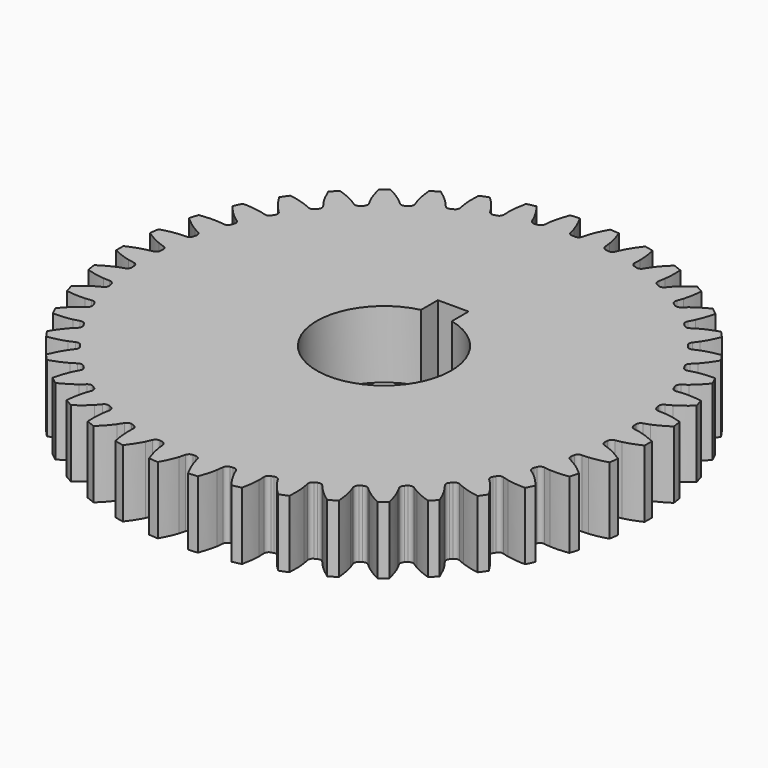
from build123d import *

# Parameters (mm, degrees)
PAD_DEPTH    = 7
POCKET_DEPTH = 7.001


with BuildPart() as part:
    # InvoluteGear → Pad (new body)
    with BuildSketch(Plane.XY):
        with BuildLine():
            add(Edge.make_bspline(
                [(25.048352, -1.260396), (25.212552, -1.238678), (25.424294, -1.201535), (25.681234, -1.138379)],
                knots=[0, 0, 0, 0, 1, 1, 1, 1], degree=3))
            add(Edge.make_bspline(
                [(25.681234, -1.138379), (26.14902, -1.023293), (26.76217, -0.823274), (27.496424, -0.477333)],
                knots=[0, 0, 0, 0, 1, 1, 1, 1], degree=3))
            ThreePointArc((27.496424, -0.477333), (27.500284, 0.000112), (27.495853, 0.477551))
            add(Edge.make_bspline(
                [(27.495853, 0.477551), (26.76217, 0.823274), (26.14902, 1.023293), (25.681234, 1.138379)],
                knots=[0, 0, 0, 0, 1, 1, 1, 1], degree=3))
            add(Edge.make_bspline(
                [(25.681234, 1.138379), (25.424294, 1.201535), (25.212552, 1.238678), (25.048407, 1.260386)],
                knots=[0, 0, 0, 0, 1, 1, 1, 1], degree=3))
            ThreePointArc((25.048407, 1.260386), (24.75907, 1.404429), (24.628881, 1.700258))
            ThreePointArc((24.628881, 1.700258), (24.618469, 1.844899), (24.607207, 1.989477))
            ThreePointArc((24.607207, 1.989477), (24.691837, 2.30138), (24.956435, 2.486944))
            add(Edge.make_bspline(
                [(24.956435, 2.486944), (25.115564, 2.532893), (25.319405, 2.60118), (25.564062, 2.701925)],
                knots=[0, 0, 0, 0, 1, 1, 1, 1], degree=3))
            add(Edge.make_bspline(
                [(25.564062, 2.701925), (26.009471, 2.885446), (26.585962, 3.174616), (27.260455, 3.626128)],
                knots=[0, 0, 0, 0, 1, 1, 1, 1], degree=3))
            ThreePointArc((27.260455, 3.626128), (27.193112, 4.098815), (27.117572, 4.570262))
            add(Edge.make_bspline(
                [(27.117572, 4.570262), (26.340556, 4.802773), (25.704444, 4.909173), (25.224729, 4.953254)],
                knots=[0, 0, 0, 0, 1, 1, 1, 1], degree=3))
            add(Edge.make_bspline(
                [(25.224729, 4.953254), (24.961247, 4.977409), (24.746333, 4.982579), (24.580786, 4.97958)],
                knots=[0, 0, 0, 0, 1, 1, 1, 1], degree=3))
            ThreePointArc((24.580786, 4.97958), (24.273213, 5.078891), (24.100386, 5.352012))
            ThreePointArc((24.100386, 5.352012), (24.068533, 5.493486), (24.035849, 5.63477))
            ThreePointArc((24.035849, 5.63477), (24.073047, 5.955803), (24.307032, 6.178731))
            add(Edge.make_bspline(
                [(24.307032, 6.178731), (24.457536, 6.247883), (24.648923, 6.345789), (24.875832, 6.481872)],
                knots=[0, 0, 0, 0, 1, 1, 1, 1], degree=3))
            add(Edge.make_bspline(
                [(24.875832, 6.481872), (25.288914, 6.729728), (25.815866, 7.10159), (26.415532, 7.648587)],
                knots=[0, 0, 0, 0, 1, 1, 1, 1], degree=3))
            ThreePointArc((26.415532, 7.648587), (26.27849, 8.105958), (26.133529, 8.56088))
            add(Edge.make_bspline(
                [(26.133529, 8.56088), (25.330538, 8.674986), (24.685672, 8.68539), (24.204745, 8.657481)],
                knots=[0, 0, 0, 0, 1, 1, 1, 1], degree=3))
            add(Edge.make_bspline(
                [(24.204745, 8.657481), (23.940606, 8.642096), (23.727322, 8.615177), (23.564071, 8.587538)],
                knots=[0, 0, 0, 0, 1, 1, 1, 1], degree=3))
            ThreePointArc((23.564071, 8.587538), (23.245131, 8.639898), (23.033529, 8.884211))
            ThreePointArc((23.033529, 8.884211), (22.980946, 9.019357), (22.927569, 9.154191))
            ThreePointArc((22.927569, 9.154191), (22.916504, 9.477183), (23.114651, 9.732495))
            add(Edge.make_bspline(
                [(23.114651, 9.732495), (23.253166, 9.823306), (23.427824, 9.948643), (23.631916, 10.117025)],
                knots=[0, 0, 0, 0, 1, 1, 1, 1], degree=3))
            add(Edge.make_bspline(
                [(23.631916, 10.117025), (24.003444, 10.42368), (24.469087, 10.869926), (24.980529, 11.500189)],
                knots=[0, 0, 0, 0, 1, 1, 1, 1], degree=3))
            ThreePointArc((24.980529, 11.500189), (24.776851, 11.932027), (24.565706, 12.360263))
            add(Edge.make_bspline(
                [(24.565706, 12.360263), (23.754677, 12.353415), (23.115463, 12.26759), (22.644068, 12.168314)],
                knots=[0, 0, 0, 0, 1, 1, 1, 1], degree=3))
            add(Edge.make_bspline(
                [(22.644068, 12.168314), (22.385171, 12.113733), (22.178282, 12.055326), (22.020974, 12.003665)],
                knots=[0, 0, 0, 0, 1, 1, 1, 1], degree=3))
            ThreePointArc((22.020974, 12.003665), (21.697793, 12.007905), (21.452141, 12.217951))
            ThreePointArc((21.452141, 12.217951), (21.380002, 12.34375), (21.307126, 12.469123))
            ThreePointArc((21.307126, 12.469123), (21.248045, 12.786859), (21.405926, 13.068851))
            add(Edge.make_bspline(
                [(21.405926, 13.068851), (21.52936, 13.179293), (21.683386, 13.32926), (21.860103, 13.526181)],
                knots=[0, 0, 0, 0, 1, 1, 1, 1], degree=3))
            add(Edge.make_bspline(
                [(21.860103, 13.526181), (22.181776, 13.884783), (22.575709, 14.395447), (22.987503, 15.094896)],
                knots=[0, 0, 0, 0, 1, 1, 1, 1], degree=3))
            ThreePointArc((22.987503, 15.094896), (22.721738, 15.491554), (22.449126, 15.883537))
            add(Edge.make_bspline(
                [(22.449126, 15.883537), (21.648176, 15.755888), (21.028893, 15.575752), (20.577559, 15.407327)],
                knots=[0, 0, 0, 0, 1, 1, 1, 1], degree=3))
            add(Edge.make_bspline(
                [(20.577559, 15.407327), (20.329689, 15.314769), (20.133816, 15.22618), (19.985964, 15.151649)],
                knots=[0, 0, 0, 0, 1, 1, 1, 1], degree=3))
            ThreePointArc((19.985964, 15.151649), (19.665761, 15.107675), (19.391547, 15.278762))
            ThreePointArc((19.391547, 15.278762), (19.301465, 15.392404), (19.210717, 15.505516))
            ThreePointArc((19.210717, 15.505516), (19.10494, 15.810897), (19.219029, 16.11327))
            add(Edge.make_bspline(
                [(19.219029, 16.11327), (19.324623, 16.240875), (19.454578, 16.412125), (19.599971, 16.633184)],
                knots=[0, 0, 0, 0, 1, 1, 1, 1], degree=3))
            add(Edge.make_bspline(
                [(19.599971, 16.633184), (19.864604, 17.035724), (20.178027, 17.599396), (20.480974, 18.352408)],
                knots=[0, 0, 0, 0, 1, 1, 1, 1], degree=3))
            ThreePointArc((20.480974, 18.352408), (20.159058, 18.705025), (19.831069, 19.052))
            add(Edge.make_bspline(
                [(19.831069, 19.052), (19.058091, 18.806401), (18.472572, 18.535978), (18.051382, 18.302166)],
                knots=[0, 0, 0, 0, 1, 1, 1, 1], degree=3))
            add(Edge.make_bspline(
                [(18.051382, 18.302166), (17.820075, 18.173699), (17.639593, 18.056905), (17.504501, 17.961171)],
                knots=[0, 0, 0, 0, 1, 1, 1, 1], degree=3))
            ThreePointArc((17.504501, 17.961171), (17.194428, 17.869964), (16.897778, 17.998271))
            ThreePointArc((16.897778, 17.998271), (16.791764, 18.097218), (16.685171, 18.195541))
            ThreePointArc((16.685171, 18.195541), (16.535061, 18.481745), (16.60281, 18.797746))
            add(Edge.make_bspline(
                [(16.60281, 18.797746), (16.688206, 18.939664), (16.791186, 19.128369), (16.902008, 19.368629)],
                knots=[0, 0, 0, 0, 1, 1, 1, 1], degree=3))
            add(Edge.make_bspline(
                [(16.902008, 19.368629), (17.10369, 19.806115), (17.329602, 20.410204), (17.516934, 21.199958)],
                knots=[0, 0, 0, 0, 1, 1, 1, 1], degree=3))
            ThreePointArc((17.516934, 21.199958), (17.146059, 21.500657), (16.770019, 21.794872))
            add(Edge.make_bspline(
                [(16.770019, 21.794872), (16.042279, 21.43681), (15.503605, 21.08214), (15.121966, 20.788165)],
                knots=[0, 0, 0, 0, 1, 1, 1, 1], degree=3))
            add(Edge.make_bspline(
                [(15.121966, 20.788165), (14.912391, 20.626658), (14.751332, 20.48427), (14.632017, 20.369471)],
                knots=[0, 0, 0, 0, 1, 1, 1, 1], degree=3))
            ThreePointArc((14.632017, 20.369471), (14.339001, 20.233068), (14.026541, 20.315728))
            ThreePointArc((14.026541, 20.315728), (13.906964, 20.39777), (13.786907, 20.479108))
            ThreePointArc((13.786907, 20.479108), (13.595817, 20.739743), (13.615711, 21.062311))
            add(Edge.make_bspline(
                [(13.615711, 21.062311), (13.679002, 21.215371), (13.752707, 21.417317), (13.826482, 21.671411)],
                knots=[0, 0, 0, 0, 1, 1, 1, 1], degree=3))
            add(Edge.make_bspline(
                [(13.826482, 21.671411), (13.960708, 22.13407), (14.094061, 22.765082), (14.161595, 23.573936)],
                knots=[0, 0, 0, 0, 1, 1, 1, 1], degree=3))
            ThreePointArc((14.161595, 23.573936), (13.750045, 23.816), (13.334355, 24.050883))
            add(Edge.make_bspline(
                [(13.334355, 24.050883), (12.668109, 23.588356), (12.188313, 23.157363), (11.854751, 22.80979)],
                knots=[0, 0, 0, 0, 1, 1, 1, 1], degree=3))
            add(Edge.make_bspline(
                [(11.854751, 22.80979), (11.671588, 22.618852), (11.533549, 22.454049), (11.432677, 22.322749)],
                knots=[0, 0, 0, 0, 1, 1, 1, 1], degree=3))
            ThreePointArc((11.432677, 22.322749), (11.163264, 22.144198), (10.841974, 22.179366))
            ThreePointArc((10.841974, 22.179366), (10.711505, 22.242669), (10.580666, 22.305205))
            ThreePointArc((10.580666, 22.305205), (10.352865, 22.534448), (10.32446, 22.856379))
            add(Edge.make_bspline(
                [(10.32446, 22.856379), (10.364232, 23.017163), (10.407015, 23.227838), (10.442096, 23.49009)],
                knots=[0, 0, 0, 0, 1, 1, 1, 1], degree=3))
            add(Edge.make_bspline(
                [(10.442096, 23.49009), (10.505866, 23.967586), (10.543683, 24.611426), (10.489909, 25.42131)],
                knots=[0, 0, 0, 0, 1, 1, 1, 1], degree=3))
            ThreePointArc((10.489909, 25.42131), (10.046878, 25.599333), (9.600823, 25.769637))
            add(Edge.make_bspline(
                [(9.600823, 25.769637), (9.010955, 25.212977), (8.600753, 24.715288), (8.322721, 24.321883)],
                knots=[0, 0, 0, 0, 1, 1, 1, 1], degree=3))
            add(Edge.make_bspline(
                [(8.322721, 24.321883), (8.170061, 24.105778), (8.058127, 23.922242), (7.977951, 23.777375)],
                knots=[0, 0, 0, 0, 1, 1, 1, 1], degree=3))
            ThreePointArc((7.977951, 23.777375), (7.738158, 23.560664), (7.415215, 23.547553))
            ThreePointArc((7.415215, 23.547553), (7.276768, 23.590704), (7.138071, 23.63304))
            ThreePointArc((7.138071, 23.63304), (6.878647, 23.825772), (6.802578, 24.139873))
            add(Edge.make_bspline(
                [(6.802578, 24.139873), (6.817942, 24.304789), (6.828847, 24.519488), (6.82445, 24.784038)],
                knots=[0, 0, 0, 0, 1, 1, 1, 1], degree=3))
            add(Edge.make_bspline(
                [(6.82445, 24.784038), (6.816341, 25.265706), (6.757776, 25.907991), (6.583895, 26.700815)],
                knots=[0, 0, 0, 0, 1, 1, 1, 1], degree=3))
            ThreePointArc((6.583895, 26.700815), (6.11928, 26.810819), (5.652825, 26.91274))
            add(Edge.make_bspline(
                [(5.652825, 26.91274), (5.152511, 26.274382), (4.821068, 25.721114), (4.604774, 25.290665)],
                knots=[0, 0, 0, 0, 1, 1, 1, 1], degree=3))
            add(Edge.make_bspline(
                [(4.604774, 25.290665), (4.486028, 25.054221), (4.402699, 24.856052), (4.34501, 24.700853)],
                knots=[0, 0, 0, 0, 1, 1, 1, 1], degree=3))
            ThreePointArc((4.34501, 24.700853), (4.140194, 24.450823), (3.822813, 24.389727))
            ThreePointArc((3.822813, 24.389727), (3.679481, 24.411761), (3.536022, 24.432953))
            ThreePointArc((3.536022, 24.432953), (3.250771, 24.584866), (3.128738, 24.884122))
            add(Edge.make_bspline(
                [(3.128738, 24.884122), (3.119351, 25.049486), (3.098135, 25.263412), (3.054357, 25.524353)],
                knots=[0, 0, 0, 0, 1, 1, 1, 1], degree=3))
            add(Edge.make_bspline(
                [(3.054357, 25.524353), (2.97455, 25.999432), (2.820911, 26.625814), (2.530809, 27.383868)],
                knots=[0, 0, 0, 0, 1, 1, 1, 1], degree=3))
            ThreePointArc((2.530809, 27.383868), (2.054987, 27.423396), (1.578552, 27.454657))
            add(Edge.make_bspline(
                [(1.578552, 27.454657), (1.178968, 26.748861), (0.933687, 26.152373), (0.783965, 25.694495)],
                knots=[0, 0, 0, 0, 1, 1, 1, 1], degree=3))
            add(Edge.make_bspline(
                [(0.783965, 25.694495), (0.701785, 25.442994), (0.648922, 25.234619), (0.615008, 25.072555)],
                knots=[0, 0, 0, 0, 1, 1, 1, 1], degree=3))
            ThreePointArc((0.615008, 25.072555), (0.449746, 24.794792), (0.145015, 24.687074))
            ThreePointArc((0.145015, 24.687074), (0, 24.6875), (-0.145015, 24.687074))
            ThreePointArc((-0.145015, 24.687074), (-0.449722, 24.794776), (-0.614994, 25.072501))
            add(Edge.make_bspline(
                [(-0.614994, 25.072501), (-0.648922, 25.234619), (-0.701785, 25.442994), (-0.783965, 25.694495)],
                knots=[0, 0, 0, 0, 1, 1, 1, 1], degree=3))
            add(Edge.make_bspline(
                [(-0.783965, 25.694495), (-0.933687, 26.152373), (-1.178968, 26.748861), (-1.578812, 27.45521)],
                knots=[0, 0, 0, 0, 1, 1, 1, 1], degree=3))
            ThreePointArc((-1.578812, 27.45521), (-2.05521, 27.423379), (-2.530984, 27.383282))
            add(Edge.make_bspline(
                [(-2.530984, 27.383282), (-2.820911, 26.625814), (-2.97455, 25.999432), (-3.054357, 25.524353)],
                knots=[0, 0, 0, 0, 1, 1, 1, 1], degree=3))
            add(Edge.make_bspline(
                [(-3.054357, 25.524353), (-3.098135, 25.263412), (-3.119351, 25.049486), (-3.128731, 24.884177)],
                knots=[0, 0, 0, 0, 1, 1, 1, 1], degree=3))
            ThreePointArc((-3.128731, 24.884177), (-3.25075, 24.584886), (-3.536022, 24.432953))
            ThreePointArc((-3.536022, 24.432953), (-3.679481, 24.411761), (-3.822813, 24.389727))
            ThreePointArc((-3.822813, 24.389727), (-4.140168, 24.450811), (-4.344987, 24.700802))
            add(Edge.make_bspline(
                [(-4.344987, 24.700802), (-4.402699, 24.856052), (-4.486028, 25.054221), (-4.604774, 25.290665)],
                knots=[0, 0, 0, 0, 1, 1, 1, 1], degree=3))
            add(Edge.make_bspline(
                [(-4.604774, 25.290665), (-4.821068, 25.721114), (-5.152511, 26.274382), (-5.653165, 26.913248)],
                knots=[0, 0, 0, 0, 1, 1, 1, 1], degree=3))
            ThreePointArc((-5.653165, 26.913248), (-6.119498, 26.810769), (-6.583981, 26.70021))
            add(Edge.make_bspline(
                [(-6.583981, 26.70021), (-6.757776, 25.907991), (-6.816341, 25.265706), (-6.82445, 24.784038)],
                knots=[0, 0, 0, 0, 1, 1, 1, 1], degree=3))
            add(Edge.make_bspline(
                [(-6.82445, 24.784038), (-6.828847, 24.519488), (-6.817942, 24.304789), (-6.80258, 24.139929)],
                knots=[0, 0, 0, 0, 1, 1, 1, 1], degree=3))
            ThreePointArc((-6.80258, 24.139929), (-6.878629, 23.825794), (-7.138071, 23.63304))
            ThreePointArc((-7.138071, 23.63304), (-7.276768, 23.590704), (-7.415215, 23.547553))
            ThreePointArc((-7.415215, 23.547553), (-7.73813, 23.560656), (-7.977921, 23.777328))
            add(Edge.make_bspline(
                [(-7.977921, 23.777328), (-8.058127, 23.922242), (-8.170061, 24.105778), (-8.322721, 24.321883)],
                knots=[0, 0, 0, 0, 1, 1, 1, 1], degree=3))
            add(Edge.make_bspline(
                [(-8.322721, 24.321883), (-8.600753, 24.715288), (-9.010955, 25.212977), (-9.601235, 25.770089)],
                knots=[0, 0, 0, 0, 1, 1, 1, 1], degree=3))
            ThreePointArc((-9.601235, 25.770089), (-10.047086, 25.599251), (-10.489903, 25.420699))
            add(Edge.make_bspline(
                [(-10.489903, 25.420699), (-10.543683, 24.611426), (-10.505866, 23.967586), (-10.442096, 23.49009)],
                knots=[0, 0, 0, 0, 1, 1, 1, 1], degree=3))
            add(Edge.make_bspline(
                [(-10.442096, 23.49009), (-10.407015, 23.227838), (-10.364232, 23.017163), (-10.32447, 22.856434)],
                knots=[0, 0, 0, 0, 1, 1, 1, 1], degree=3))
            ThreePointArc((-10.32447, 22.856434), (-10.35285, 22.534473), (-10.580666, 22.305205))
            ThreePointArc((-10.580666, 22.305205), (-10.711505, 22.242669), (-10.841974, 22.179366))
            ThreePointArc((-10.841974, 22.179366), (-11.163235, 22.144194), (-11.432641, 22.322707))
            add(Edge.make_bspline(
                [(-11.432641, 22.322707), (-11.533549, 22.454049), (-11.671588, 22.618852), (-11.854751, 22.80979)],
                knots=[0, 0, 0, 0, 1, 1, 1, 1], degree=3))
            add(Edge.make_bspline(
                [(-11.854751, 22.80979), (-12.188313, 23.157363), (-12.668109, 23.588356), (-13.33483, 24.051269)],
                knots=[0, 0, 0, 0, 1, 1, 1, 1], degree=3))
            ThreePointArc((-13.33483, 24.051269), (-13.750239, 23.815888), (-14.161498, 23.573332))
            add(Edge.make_bspline(
                [(-14.161498, 23.573332), (-14.094061, 22.765082), (-13.960708, 22.13407), (-13.826482, 21.671411)],
                knots=[0, 0, 0, 0, 1, 1, 1, 1], degree=3))
            add(Edge.make_bspline(
                [(-13.826482, 21.671411), (-13.752707, 21.417317), (-13.679002, 21.215371), (-13.615729, 21.062364)],
                knots=[0, 0, 0, 0, 1, 1, 1, 1], degree=3))
            ThreePointArc((-13.615729, 21.062364), (-13.595806, 20.739769), (-13.786907, 20.479108))
            ThreePointArc((-13.786907, 20.479108), (-13.906964, 20.39777), (-14.026541, 20.315728))
            ThreePointArc((-14.026541, 20.315728), (-14.338972, 20.233068), (-14.631975, 20.369434))
            add(Edge.make_bspline(
                [(-14.631975, 20.369434), (-14.751332, 20.48427), (-14.912391, 20.626658), (-15.121966, 20.788165)],
                knots=[0, 0, 0, 0, 1, 1, 1, 1], degree=3))
            add(Edge.make_bspline(
                [(-15.121966, 20.788165), (-15.503605, 21.08214), (-16.042279, 21.43681), (-16.770546, 21.795183)],
                knots=[0, 0, 0, 0, 1, 1, 1, 1], degree=3))
            ThreePointArc((-16.770546, 21.795183), (-17.146234, 21.500518), (-17.516749, 21.199375))
            add(Edge.make_bspline(
                [(-17.516749, 21.199375), (-17.329602, 20.410204), (-17.10369, 19.806115), (-16.902008, 19.368629)],
                knots=[0, 0, 0, 0, 1, 1, 1, 1], degree=3))
            add(Edge.make_bspline(
                [(-16.902008, 19.368629), (-16.791186, 19.128369), (-16.688206, 18.939664), (-16.602835, 18.797795)],
                knots=[0, 0, 0, 0, 1, 1, 1, 1], degree=3))
            ThreePointArc((-16.602835, 18.797795), (-16.535055, 18.481773), (-16.685171, 18.195541))
            ThreePointArc((-16.685171, 18.195541), (-16.791764, 18.097218), (-16.897778, 17.998271))
            ThreePointArc((-16.897778, 17.998271), (-17.1944, 17.869968), (-17.504454, 17.961142))
            add(Edge.make_bspline(
                [(-17.504454, 17.961142), (-17.639593, 18.056905), (-17.820075, 18.173699), (-18.051382, 18.302166)],
                knots=[0, 0, 0, 0, 1, 1, 1, 1], degree=3))
            add(Edge.make_bspline(
                [(-18.051382, 18.302166), (-18.472572, 18.535978), (-19.058091, 18.806401), (-19.831637, 19.052228)],
                knots=[0, 0, 0, 0, 1, 1, 1, 1], degree=3))
            ThreePointArc((-19.831637, 19.052228), (-20.15921, 18.704861), (-20.480704, 18.35186))
            add(Edge.make_bspline(
                [(-20.480704, 18.35186), (-20.178027, 17.599396), (-19.864604, 17.035724), (-19.599971, 16.633184)],
                knots=[0, 0, 0, 0, 1, 1, 1, 1], degree=3))
            add(Edge.make_bspline(
                [(-19.599971, 16.633184), (-19.454578, 16.412125), (-19.324623, 16.240875), (-19.219061, 16.113315)],
                knots=[0, 0, 0, 0, 1, 1, 1, 1], degree=3))
            ThreePointArc((-19.219061, 16.113315), (-19.104937, 15.810925), (-19.210717, 15.505516))
            ThreePointArc((-19.210717, 15.505516), (-19.301465, 15.392404), (-19.391547, 15.278762))
            ThreePointArc((-19.391547, 15.278762), (-19.665733, 15.107683), (-19.985913, 15.151627))
            add(Edge.make_bspline(
                [(-19.985913, 15.151627), (-20.133816, 15.22618), (-20.329689, 15.314769), (-20.577559, 15.407327)],
                knots=[0, 0, 0, 0, 1, 1, 1, 1], degree=3))
            add(Edge.make_bspline(
                [(-20.577559, 15.407327), (-21.028893, 15.575752), (-21.648176, 15.755888), (-22.449721, 15.883678)],
                knots=[0, 0, 0, 0, 1, 1, 1, 1], degree=3))
            ThreePointArc((-22.449721, 15.883678), (-22.721864, 15.491369), (-22.987154, 15.094394))
            add(Edge.make_bspline(
                [(-22.987154, 15.094394), (-22.575709, 14.395447), (-22.181776, 13.884783), (-21.860103, 13.526181)],
                knots=[0, 0, 0, 0, 1, 1, 1, 1], degree=3))
            add(Edge.make_bspline(
                [(-21.860103, 13.526181), (-21.683386, 13.32926), (-21.52936, 13.179293), (-21.405965, 13.06889)],
                knots=[0, 0, 0, 0, 1, 1, 1, 1], degree=3))
            ThreePointArc((-21.405965, 13.06889), (-21.248047, 12.786887), (-21.307126, 12.469123))
            ThreePointArc((-21.307126, 12.469123), (-21.380002, 12.34375), (-21.452141, 12.217951))
            ThreePointArc((-21.452141, 12.217951), (-21.697767, 12.007918), (-22.02092, 12.003651))
            add(Edge.make_bspline(
                [(-22.02092, 12.003651), (-22.178282, 12.055326), (-22.385171, 12.113733), (-22.644068, 12.168314)],
                knots=[0, 0, 0, 0, 1, 1, 1, 1], degree=3))
            add(Edge.make_bspline(
                [(-22.644068, 12.168314), (-23.115463, 12.26759), (-23.754677, 12.353415), (-24.566315, 12.360314)],
                knots=[0, 0, 0, 0, 1, 1, 1, 1], degree=3))
            ThreePointArc((-24.566315, 12.360314), (-24.776948, 11.931825), (-24.98011, 11.499745))
            add(Edge.make_bspline(
                [(-24.98011, 11.499745), (-24.469087, 10.869926), (-24.003444, 10.42368), (-23.631916, 10.117025)],
                knots=[0, 0, 0, 0, 1, 1, 1, 1], degree=3))
            add(Edge.make_bspline(
                [(-23.631916, 10.117025), (-23.427824, 9.948643), (-23.253166, 9.823306), (-23.114695, 9.732528)],
                knots=[0, 0, 0, 0, 1, 1, 1, 1], degree=3))
            ThreePointArc((-23.114695, 9.732528), (-22.91651, 9.477211), (-22.927569, 9.154191))
            ThreePointArc((-22.927569, 9.154191), (-22.980946, 9.019357), (-23.033529, 8.884211))
            ThreePointArc((-23.033529, 8.884211), (-23.245108, 8.639915), (-23.564016, 8.587532))
            add(Edge.make_bspline(
                [(-23.564016, 8.587532), (-23.727322, 8.615177), (-23.940606, 8.642096), (-24.204745, 8.657481)],
                knots=[0, 0, 0, 0, 1, 1, 1, 1], degree=3))
            add(Edge.make_bspline(
                [(-24.204745, 8.657481), (-24.685672, 8.68539), (-25.330538, 8.674986), (-26.134139, 8.56084)],
                knots=[0, 0, 0, 0, 1, 1, 1, 1], degree=3))
            ThreePointArc((-26.134139, 8.56084), (-26.278556, 8.105744), (-26.41505, 7.64821))
            add(Edge.make_bspline(
                [(-26.41505, 7.64821), (-25.815866, 7.10159), (-25.288914, 6.729728), (-24.875832, 6.481872)],
                knots=[0, 0, 0, 0, 1, 1, 1, 1], degree=3))
            add(Edge.make_bspline(
                [(-24.875832, 6.481872), (-24.648923, 6.345789), (-24.457536, 6.247883), (-24.307081, 6.178757)],
                knots=[0, 0, 0, 0, 1, 1, 1, 1], degree=3))
            ThreePointArc((-24.307081, 6.178757), (-24.073057, 5.95583), (-24.035849, 5.63477))
            ThreePointArc((-24.035849, 5.63477), (-24.068533, 5.493486), (-24.100386, 5.352012))
            ThreePointArc((-24.100386, 5.352012), (-24.273192, 5.07891), (-24.58073, 4.979582))
            add(Edge.make_bspline(
                [(-24.58073, 4.979582), (-24.746333, 4.982579), (-24.961247, 4.977409), (-25.224729, 4.953254)],
                knots=[0, 0, 0, 0, 1, 1, 1, 1], degree=3))
            add(Edge.make_bspline(
                [(-25.224729, 4.953254), (-25.704444, 4.909173), (-26.340556, 4.802773), (-27.118169, 4.570131)],
                knots=[0, 0, 0, 0, 1, 1, 1, 1], degree=3))
            ThreePointArc((-27.118169, 4.570131), (-27.193145, 4.098594), (-27.259923, 3.625827))
            add(Edge.make_bspline(
                [(-27.259923, 3.625827), (-26.585962, 3.174616), (-26.009471, 2.885446), (-25.564062, 2.701925)],
                knots=[0, 0, 0, 0, 1, 1, 1, 1], degree=3))
            add(Edge.make_bspline(
                [(-25.564062, 2.701925), (-25.319405, 2.60118), (-25.115564, 2.532893), (-24.956487, 2.486963)],
                knots=[0, 0, 0, 0, 1, 1, 1, 1], degree=3))
            ThreePointArc((-24.956487, 2.486963), (-24.691851, 2.301405), (-24.607207, 1.989477))
            ThreePointArc((-24.607207, 1.989477), (-24.618469, 1.844899), (-24.628881, 1.700258))
            ThreePointArc((-24.628881, 1.700258), (-24.759053, 1.404452), (-25.048352, 1.260396))
            add(Edge.make_bspline(
                [(-25.048352, 1.260396), (-25.212552, 1.238678), (-25.424294, 1.201535), (-25.681234, 1.138379)],
                knots=[0, 0, 0, 0, 1, 1, 1, 1], degree=3))
            add(Edge.make_bspline(
                [(-25.681234, 1.138379), (-26.14902, 1.023293), (-26.76217, 0.823274), (-27.496424, 0.477333)],
                knots=[0, 0, 0, 0, 1, 1, 1, 1], degree=3))
            ThreePointArc((-27.496424, 0.477333), (-27.500284, -0.000112), (-27.495853, -0.477551))
            add(Edge.make_bspline(
                [(-27.495853, -0.477551), (-26.76217, -0.823274), (-26.14902, -1.023293), (-25.681234, -1.138379)],
                knots=[0, 0, 0, 0, 1, 1, 1, 1], degree=3))
            add(Edge.make_bspline(
                [(-25.681234, -1.138379), (-25.424294, -1.201535), (-25.212552, -1.238678), (-25.048407, -1.260386)],
                knots=[0, 0, 0, 0, 1, 1, 1, 1], degree=3))
            ThreePointArc((-25.048407, -1.260386), (-24.75907, -1.404429), (-24.628881, -1.700258))
            ThreePointArc((-24.628881, -1.700258), (-24.618469, -1.844899), (-24.607207, -1.989477))
            ThreePointArc((-24.607207, -1.989477), (-24.691837, -2.30138), (-24.956435, -2.486944))
            add(Edge.make_bspline(
                [(-24.956435, -2.486944), (-25.115564, -2.532893), (-25.319405, -2.60118), (-25.564062, -2.701925)],
                knots=[0, 0, 0, 0, 1, 1, 1, 1], degree=3))
            add(Edge.make_bspline(
                [(-25.564062, -2.701925), (-26.009471, -2.885446), (-26.585962, -3.174616), (-27.260455, -3.626128)],
                knots=[0, 0, 0, 0, 1, 1, 1, 1], degree=3))
            ThreePointArc((-27.260455, -3.626128), (-27.193112, -4.098815), (-27.117572, -4.570262))
            add(Edge.make_bspline(
                [(-27.117572, -4.570262), (-26.340556, -4.802773), (-25.704444, -4.909173), (-25.224729, -4.953254)],
                knots=[0, 0, 0, 0, 1, 1, 1, 1], degree=3))
            add(Edge.make_bspline(
                [(-25.224729, -4.953254), (-24.961247, -4.977409), (-24.746333, -4.982579), (-24.580786, -4.97958)],
                knots=[0, 0, 0, 0, 1, 1, 1, 1], degree=3))
            ThreePointArc((-24.580786, -4.97958), (-24.273213, -5.078891), (-24.100386, -5.352012))
            ThreePointArc((-24.100386, -5.352012), (-24.068533, -5.493486), (-24.035849, -5.63477))
            ThreePointArc((-24.035849, -5.63477), (-24.073047, -5.955803), (-24.307032, -6.178731))
            add(Edge.make_bspline(
                [(-24.307032, -6.178731), (-24.457536, -6.247883), (-24.648923, -6.345789), (-24.875832, -6.481872)],
                knots=[0, 0, 0, 0, 1, 1, 1, 1], degree=3))
            add(Edge.make_bspline(
                [(-24.875832, -6.481872), (-25.288914, -6.729728), (-25.815866, -7.10159), (-26.415532, -7.648587)],
                knots=[0, 0, 0, 0, 1, 1, 1, 1], degree=3))
            ThreePointArc((-26.415532, -7.648587), (-26.27849, -8.105958), (-26.133529, -8.56088))
            add(Edge.make_bspline(
                [(-26.133529, -8.56088), (-25.330538, -8.674986), (-24.685672, -8.68539), (-24.204745, -8.657481)],
                knots=[0, 0, 0, 0, 1, 1, 1, 1], degree=3))
            add(Edge.make_bspline(
                [(-24.204745, -8.657481), (-23.940606, -8.642096), (-23.727322, -8.615177), (-23.564071, -8.587538)],
                knots=[0, 0, 0, 0, 1, 1, 1, 1], degree=3))
            ThreePointArc((-23.564071, -8.587538), (-23.245131, -8.639898), (-23.033529, -8.884211))
            ThreePointArc((-23.033529, -8.884211), (-22.980946, -9.019357), (-22.927569, -9.154191))
            ThreePointArc((-22.927569, -9.154191), (-22.916504, -9.477183), (-23.114651, -9.732495))
            add(Edge.make_bspline(
                [(-23.114651, -9.732495), (-23.253166, -9.823306), (-23.427824, -9.948643), (-23.631916, -10.117025)],
                knots=[0, 0, 0, 0, 1, 1, 1, 1], degree=3))
            add(Edge.make_bspline(
                [(-23.631916, -10.117025), (-24.003444, -10.42368), (-24.469087, -10.869926), (-24.980529, -11.500189)],
                knots=[0, 0, 0, 0, 1, 1, 1, 1], degree=3))
            ThreePointArc((-24.980529, -11.500189), (-24.776851, -11.932027), (-24.565706, -12.360263))
            add(Edge.make_bspline(
                [(-24.565706, -12.360263), (-23.754677, -12.353415), (-23.115463, -12.26759), (-22.644068, -12.168314)],
                knots=[0, 0, 0, 0, 1, 1, 1, 1], degree=3))
            add(Edge.make_bspline(
                [(-22.644068, -12.168314), (-22.385171, -12.113733), (-22.178282, -12.055326), (-22.020974, -12.003665)],
                knots=[0, 0, 0, 0, 1, 1, 1, 1], degree=3))
            ThreePointArc((-22.020974, -12.003665), (-21.697793, -12.007905), (-21.452141, -12.217951))
            ThreePointArc((-21.452141, -12.217951), (-21.380002, -12.34375), (-21.307126, -12.469123))
            ThreePointArc((-21.307126, -12.469123), (-21.248045, -12.786859), (-21.405926, -13.068851))
            add(Edge.make_bspline(
                [(-21.405926, -13.068851), (-21.52936, -13.179293), (-21.683386, -13.32926), (-21.860103, -13.526181)],
                knots=[0, 0, 0, 0, 1, 1, 1, 1], degree=3))
            add(Edge.make_bspline(
                [(-21.860103, -13.526181), (-22.181776, -13.884783), (-22.575709, -14.395447), (-22.987503, -15.094896)],
                knots=[0, 0, 0, 0, 1, 1, 1, 1], degree=3))
            ThreePointArc((-22.987503, -15.094896), (-22.721738, -15.491554), (-22.449126, -15.883537))
            add(Edge.make_bspline(
                [(-22.449126, -15.883537), (-21.648176, -15.755888), (-21.028893, -15.575752), (-20.577559, -15.407327)],
                knots=[0, 0, 0, 0, 1, 1, 1, 1], degree=3))
            add(Edge.make_bspline(
                [(-20.577559, -15.407327), (-20.329689, -15.314769), (-20.133816, -15.22618), (-19.985964, -15.151649)],
                knots=[0, 0, 0, 0, 1, 1, 1, 1], degree=3))
            ThreePointArc((-19.985964, -15.151649), (-19.665761, -15.107675), (-19.391547, -15.278762))
            ThreePointArc((-19.391547, -15.278762), (-19.301465, -15.392404), (-19.210717, -15.505516))
            ThreePointArc((-19.210717, -15.505516), (-19.10494, -15.810897), (-19.219029, -16.11327))
            add(Edge.make_bspline(
                [(-19.219029, -16.11327), (-19.324623, -16.240875), (-19.454578, -16.412125), (-19.599971, -16.633184)],
                knots=[0, 0, 0, 0, 1, 1, 1, 1], degree=3))
            add(Edge.make_bspline(
                [(-19.599971, -16.633184), (-19.864604, -17.035724), (-20.178027, -17.599396), (-20.480974, -18.352408)],
                knots=[0, 0, 0, 0, 1, 1, 1, 1], degree=3))
            ThreePointArc((-20.480974, -18.352408), (-20.159058, -18.705025), (-19.831069, -19.052))
            add(Edge.make_bspline(
                [(-19.831069, -19.052), (-19.058091, -18.806401), (-18.472572, -18.535978), (-18.051382, -18.302166)],
                knots=[0, 0, 0, 0, 1, 1, 1, 1], degree=3))
            add(Edge.make_bspline(
                [(-18.051382, -18.302166), (-17.820075, -18.173699), (-17.639593, -18.056905), (-17.504501, -17.961171)],
                knots=[0, 0, 0, 0, 1, 1, 1, 1], degree=3))
            ThreePointArc((-17.504501, -17.961171), (-17.194428, -17.869964), (-16.897778, -17.998271))
            ThreePointArc((-16.897778, -17.998271), (-16.791764, -18.097218), (-16.685171, -18.195541))
            ThreePointArc((-16.685171, -18.195541), (-16.535061, -18.481745), (-16.60281, -18.797746))
            add(Edge.make_bspline(
                [(-16.60281, -18.797746), (-16.688206, -18.939664), (-16.791186, -19.128369), (-16.902008, -19.368629)],
                knots=[0, 0, 0, 0, 1, 1, 1, 1], degree=3))
            add(Edge.make_bspline(
                [(-16.902008, -19.368629), (-17.10369, -19.806115), (-17.329602, -20.410204), (-17.516934, -21.199958)],
                knots=[0, 0, 0, 0, 1, 1, 1, 1], degree=3))
            ThreePointArc((-17.516934, -21.199958), (-17.146059, -21.500657), (-16.770019, -21.794872))
            add(Edge.make_bspline(
                [(-16.770019, -21.794872), (-16.042279, -21.43681), (-15.503605, -21.08214), (-15.121966, -20.788165)],
                knots=[0, 0, 0, 0, 1, 1, 1, 1], degree=3))
            add(Edge.make_bspline(
                [(-15.121966, -20.788165), (-14.912391, -20.626658), (-14.751332, -20.48427), (-14.632017, -20.369471)],
                knots=[0, 0, 0, 0, 1, 1, 1, 1], degree=3))
            ThreePointArc((-14.632017, -20.369471), (-14.339001, -20.233068), (-14.026541, -20.315728))
            ThreePointArc((-14.026541, -20.315728), (-13.906964, -20.39777), (-13.786907, -20.479108))
            ThreePointArc((-13.786907, -20.479108), (-13.595817, -20.739743), (-13.615711, -21.062311))
            add(Edge.make_bspline(
                [(-13.615711, -21.062311), (-13.679002, -21.215371), (-13.752707, -21.417317), (-13.826482, -21.671411)],
                knots=[0, 0, 0, 0, 1, 1, 1, 1], degree=3))
            add(Edge.make_bspline(
                [(-13.826482, -21.671411), (-13.960708, -22.13407), (-14.094061, -22.765082), (-14.161595, -23.573936)],
                knots=[0, 0, 0, 0, 1, 1, 1, 1], degree=3))
            ThreePointArc((-14.161595, -23.573936), (-13.750045, -23.816), (-13.334355, -24.050883))
            add(Edge.make_bspline(
                [(-13.334355, -24.050883), (-12.668109, -23.588356), (-12.188313, -23.157363), (-11.854751, -22.80979)],
                knots=[0, 0, 0, 0, 1, 1, 1, 1], degree=3))
            add(Edge.make_bspline(
                [(-11.854751, -22.80979), (-11.671588, -22.618852), (-11.533549, -22.454049), (-11.432677, -22.322749)],
                knots=[0, 0, 0, 0, 1, 1, 1, 1], degree=3))
            ThreePointArc((-11.432677, -22.322749), (-11.163264, -22.144198), (-10.841974, -22.179366))
            ThreePointArc((-10.841974, -22.179366), (-10.711505, -22.242669), (-10.580666, -22.305205))
            ThreePointArc((-10.580666, -22.305205), (-10.352865, -22.534448), (-10.32446, -22.856379))
            add(Edge.make_bspline(
                [(-10.32446, -22.856379), (-10.364232, -23.017163), (-10.407015, -23.227838), (-10.442096, -23.49009)],
                knots=[0, 0, 0, 0, 1, 1, 1, 1], degree=3))
            add(Edge.make_bspline(
                [(-10.442096, -23.49009), (-10.505866, -23.967586), (-10.543683, -24.611426), (-10.489909, -25.42131)],
                knots=[0, 0, 0, 0, 1, 1, 1, 1], degree=3))
            ThreePointArc((-10.489909, -25.42131), (-10.046878, -25.599333), (-9.600823, -25.769637))
            add(Edge.make_bspline(
                [(-9.600823, -25.769637), (-9.010955, -25.212977), (-8.600753, -24.715288), (-8.322721, -24.321883)],
                knots=[0, 0, 0, 0, 1, 1, 1, 1], degree=3))
            add(Edge.make_bspline(
                [(-8.322721, -24.321883), (-8.170061, -24.105778), (-8.058127, -23.922242), (-7.977951, -23.777375)],
                knots=[0, 0, 0, 0, 1, 1, 1, 1], degree=3))
            ThreePointArc((-7.977951, -23.777375), (-7.738158, -23.560664), (-7.415215, -23.547553))
            ThreePointArc((-7.415215, -23.547553), (-7.276768, -23.590704), (-7.138071, -23.63304))
            ThreePointArc((-7.138071, -23.63304), (-6.878647, -23.825772), (-6.802578, -24.139873))
            add(Edge.make_bspline(
                [(-6.802578, -24.139873), (-6.817942, -24.304789), (-6.828847, -24.519488), (-6.82445, -24.784038)],
                knots=[0, 0, 0, 0, 1, 1, 1, 1], degree=3))
            add(Edge.make_bspline(
                [(-6.82445, -24.784038), (-6.816341, -25.265706), (-6.757776, -25.907991), (-6.583895, -26.700815)],
                knots=[0, 0, 0, 0, 1, 1, 1, 1], degree=3))
            ThreePointArc((-6.583895, -26.700815), (-6.11928, -26.810819), (-5.652825, -26.91274))
            add(Edge.make_bspline(
                [(-5.652825, -26.91274), (-5.152511, -26.274382), (-4.821068, -25.721114), (-4.604774, -25.290665)],
                knots=[0, 0, 0, 0, 1, 1, 1, 1], degree=3))
            add(Edge.make_bspline(
                [(-4.604774, -25.290665), (-4.486028, -25.054221), (-4.402699, -24.856052), (-4.34501, -24.700853)],
                knots=[0, 0, 0, 0, 1, 1, 1, 1], degree=3))
            ThreePointArc((-4.34501, -24.700853), (-4.140194, -24.450823), (-3.822813, -24.389727))
            ThreePointArc((-3.822813, -24.389727), (-3.679481, -24.411761), (-3.536022, -24.432953))
            ThreePointArc((-3.536022, -24.432953), (-3.250771, -24.584866), (-3.128738, -24.884122))
            add(Edge.make_bspline(
                [(-3.128738, -24.884122), (-3.119351, -25.049486), (-3.098135, -25.263412), (-3.054357, -25.524353)],
                knots=[0, 0, 0, 0, 1, 1, 1, 1], degree=3))
            add(Edge.make_bspline(
                [(-3.054357, -25.524353), (-2.97455, -25.999432), (-2.820911, -26.625814), (-2.530809, -27.383868)],
                knots=[0, 0, 0, 0, 1, 1, 1, 1], degree=3))
            ThreePointArc((-2.530809, -27.383868), (-2.054987, -27.423396), (-1.578552, -27.454657))
            add(Edge.make_bspline(
                [(-1.578552, -27.454657), (-1.178968, -26.748861), (-0.933687, -26.152373), (-0.783965, -25.694495)],
                knots=[0, 0, 0, 0, 1, 1, 1, 1], degree=3))
            add(Edge.make_bspline(
                [(-0.783965, -25.694495), (-0.701785, -25.442994), (-0.648922, -25.234619), (-0.615008, -25.072555)],
                knots=[0, 0, 0, 0, 1, 1, 1, 1], degree=3))
            ThreePointArc((-0.615008, -25.072555), (-0.449746, -24.794792), (-0.145015, -24.687074))
            ThreePointArc((-0.145015, -24.687074), (0, -24.6875), (0.145015, -24.687074))
            ThreePointArc((0.145015, -24.687074), (0.449722, -24.794776), (0.614994, -25.072501))
            add(Edge.make_bspline(
                [(0.614994, -25.072501), (0.648922, -25.234619), (0.701785, -25.442994), (0.783965, -25.694495)],
                knots=[0, 0, 0, 0, 1, 1, 1, 1], degree=3))
            add(Edge.make_bspline(
                [(0.783965, -25.694495), (0.933687, -26.152373), (1.178968, -26.748861), (1.578812, -27.45521)],
                knots=[0, 0, 0, 0, 1, 1, 1, 1], degree=3))
            ThreePointArc((1.578812, -27.45521), (2.05521, -27.423379), (2.530984, -27.383282))
            add(Edge.make_bspline(
                [(2.530984, -27.383282), (2.820911, -26.625814), (2.97455, -25.999432), (3.054357, -25.524353)],
                knots=[0, 0, 0, 0, 1, 1, 1, 1], degree=3))
            add(Edge.make_bspline(
                [(3.054357, -25.524353), (3.098135, -25.263412), (3.119351, -25.049486), (3.128731, -24.884177)],
                knots=[0, 0, 0, 0, 1, 1, 1, 1], degree=3))
            ThreePointArc((3.128731, -24.884177), (3.25075, -24.584886), (3.536022, -24.432953))
            ThreePointArc((3.536022, -24.432953), (3.679481, -24.411761), (3.822813, -24.389727))
            ThreePointArc((3.822813, -24.389727), (4.140168, -24.450811), (4.344987, -24.700802))
            add(Edge.make_bspline(
                [(4.344987, -24.700802), (4.402699, -24.856052), (4.486028, -25.054221), (4.604774, -25.290665)],
                knots=[0, 0, 0, 0, 1, 1, 1, 1], degree=3))
            add(Edge.make_bspline(
                [(4.604774, -25.290665), (4.821068, -25.721114), (5.152511, -26.274382), (5.653165, -26.913248)],
                knots=[0, 0, 0, 0, 1, 1, 1, 1], degree=3))
            ThreePointArc((5.653165, -26.913248), (6.119498, -26.810769), (6.583981, -26.70021))
            add(Edge.make_bspline(
                [(6.583981, -26.70021), (6.757776, -25.907991), (6.816341, -25.265706), (6.82445, -24.784038)],
                knots=[0, 0, 0, 0, 1, 1, 1, 1], degree=3))
            add(Edge.make_bspline(
                [(6.82445, -24.784038), (6.828847, -24.519488), (6.817942, -24.304789), (6.80258, -24.139929)],
                knots=[0, 0, 0, 0, 1, 1, 1, 1], degree=3))
            ThreePointArc((6.80258, -24.139929), (6.878629, -23.825794), (7.138071, -23.63304))
            ThreePointArc((7.138071, -23.63304), (7.276768, -23.590704), (7.415215, -23.547553))
            ThreePointArc((7.415215, -23.547553), (7.73813, -23.560656), (7.977921, -23.777328))
            add(Edge.make_bspline(
                [(7.977921, -23.777328), (8.058127, -23.922242), (8.170061, -24.105778), (8.322721, -24.321883)],
                knots=[0, 0, 0, 0, 1, 1, 1, 1], degree=3))
            add(Edge.make_bspline(
                [(8.322721, -24.321883), (8.600753, -24.715288), (9.010955, -25.212977), (9.601235, -25.770089)],
                knots=[0, 0, 0, 0, 1, 1, 1, 1], degree=3))
            ThreePointArc((9.601235, -25.770089), (10.047086, -25.599251), (10.489903, -25.420699))
            add(Edge.make_bspline(
                [(10.489903, -25.420699), (10.543683, -24.611426), (10.505866, -23.967586), (10.442096, -23.49009)],
                knots=[0, 0, 0, 0, 1, 1, 1, 1], degree=3))
            add(Edge.make_bspline(
                [(10.442096, -23.49009), (10.407015, -23.227838), (10.364232, -23.017163), (10.32447, -22.856434)],
                knots=[0, 0, 0, 0, 1, 1, 1, 1], degree=3))
            ThreePointArc((10.32447, -22.856434), (10.35285, -22.534473), (10.580666, -22.305205))
            ThreePointArc((10.580666, -22.305205), (10.711505, -22.242669), (10.841974, -22.179366))
            ThreePointArc((10.841974, -22.179366), (11.163235, -22.144194), (11.432641, -22.322707))
            add(Edge.make_bspline(
                [(11.432641, -22.322707), (11.533549, -22.454049), (11.671588, -22.618852), (11.854751, -22.80979)],
                knots=[0, 0, 0, 0, 1, 1, 1, 1], degree=3))
            add(Edge.make_bspline(
                [(11.854751, -22.80979), (12.188313, -23.157363), (12.668109, -23.588356), (13.33483, -24.051269)],
                knots=[0, 0, 0, 0, 1, 1, 1, 1], degree=3))
            ThreePointArc((13.33483, -24.051269), (13.750239, -23.815888), (14.161498, -23.573332))
            add(Edge.make_bspline(
                [(14.161498, -23.573332), (14.094061, -22.765082), (13.960708, -22.13407), (13.826482, -21.671411)],
                knots=[0, 0, 0, 0, 1, 1, 1, 1], degree=3))
            add(Edge.make_bspline(
                [(13.826482, -21.671411), (13.752707, -21.417317), (13.679002, -21.215371), (13.615729, -21.062364)],
                knots=[0, 0, 0, 0, 1, 1, 1, 1], degree=3))
            ThreePointArc((13.615729, -21.062364), (13.595806, -20.739769), (13.786907, -20.479108))
            ThreePointArc((13.786907, -20.479108), (13.906964, -20.39777), (14.026541, -20.315728))
            ThreePointArc((14.026541, -20.315728), (14.338972, -20.233068), (14.631975, -20.369434))
            add(Edge.make_bspline(
                [(14.631975, -20.369434), (14.751332, -20.48427), (14.912391, -20.626658), (15.121966, -20.788165)],
                knots=[0, 0, 0, 0, 1, 1, 1, 1], degree=3))
            add(Edge.make_bspline(
                [(15.121966, -20.788165), (15.503605, -21.08214), (16.042279, -21.43681), (16.770546, -21.795183)],
                knots=[0, 0, 0, 0, 1, 1, 1, 1], degree=3))
            ThreePointArc((16.770546, -21.795183), (17.146234, -21.500518), (17.516749, -21.199375))
            add(Edge.make_bspline(
                [(17.516749, -21.199375), (17.329602, -20.410204), (17.10369, -19.806115), (16.902008, -19.368629)],
                knots=[0, 0, 0, 0, 1, 1, 1, 1], degree=3))
            add(Edge.make_bspline(
                [(16.902008, -19.368629), (16.791186, -19.128369), (16.688206, -18.939664), (16.602835, -18.797795)],
                knots=[0, 0, 0, 0, 1, 1, 1, 1], degree=3))
            ThreePointArc((16.602835, -18.797795), (16.535055, -18.481773), (16.685171, -18.195541))
            ThreePointArc((16.685171, -18.195541), (16.791764, -18.097218), (16.897778, -17.998271))
            ThreePointArc((16.897778, -17.998271), (17.1944, -17.869968), (17.504454, -17.961142))
            add(Edge.make_bspline(
                [(17.504454, -17.961142), (17.639593, -18.056905), (17.820075, -18.173699), (18.051382, -18.302166)],
                knots=[0, 0, 0, 0, 1, 1, 1, 1], degree=3))
            add(Edge.make_bspline(
                [(18.051382, -18.302166), (18.472572, -18.535978), (19.058091, -18.806401), (19.831637, -19.052228)],
                knots=[0, 0, 0, 0, 1, 1, 1, 1], degree=3))
            ThreePointArc((19.831637, -19.052228), (20.15921, -18.704861), (20.480704, -18.35186))
            add(Edge.make_bspline(
                [(20.480704, -18.35186), (20.178027, -17.599396), (19.864604, -17.035724), (19.599971, -16.633184)],
                knots=[0, 0, 0, 0, 1, 1, 1, 1], degree=3))
            add(Edge.make_bspline(
                [(19.599971, -16.633184), (19.454578, -16.412125), (19.324623, -16.240875), (19.219061, -16.113315)],
                knots=[0, 0, 0, 0, 1, 1, 1, 1], degree=3))
            ThreePointArc((19.219061, -16.113315), (19.104937, -15.810925), (19.210717, -15.505516))
            ThreePointArc((19.210717, -15.505516), (19.301465, -15.392404), (19.391547, -15.278762))
            ThreePointArc((19.391547, -15.278762), (19.665733, -15.107683), (19.985913, -15.151627))
            add(Edge.make_bspline(
                [(19.985913, -15.151627), (20.133816, -15.22618), (20.329689, -15.314769), (20.577559, -15.407327)],
                knots=[0, 0, 0, 0, 1, 1, 1, 1], degree=3))
            add(Edge.make_bspline(
                [(20.577559, -15.407327), (21.028893, -15.575752), (21.648176, -15.755888), (22.449721, -15.883678)],
                knots=[0, 0, 0, 0, 1, 1, 1, 1], degree=3))
            ThreePointArc((22.449721, -15.883678), (22.721864, -15.491369), (22.987154, -15.094394))
            add(Edge.make_bspline(
                [(22.987154, -15.094394), (22.575709, -14.395447), (22.181776, -13.884783), (21.860103, -13.526181)],
                knots=[0, 0, 0, 0, 1, 1, 1, 1], degree=3))
            add(Edge.make_bspline(
                [(21.860103, -13.526181), (21.683386, -13.32926), (21.52936, -13.179293), (21.405965, -13.06889)],
                knots=[0, 0, 0, 0, 1, 1, 1, 1], degree=3))
            ThreePointArc((21.405965, -13.06889), (21.248047, -12.786887), (21.307126, -12.469123))
            ThreePointArc((21.307126, -12.469123), (21.380002, -12.34375), (21.452141, -12.217951))
            ThreePointArc((21.452141, -12.217951), (21.697767, -12.007918), (22.02092, -12.003651))
            add(Edge.make_bspline(
                [(22.02092, -12.003651), (22.178282, -12.055326), (22.385171, -12.113733), (22.644068, -12.168314)],
                knots=[0, 0, 0, 0, 1, 1, 1, 1], degree=3))
            add(Edge.make_bspline(
                [(22.644068, -12.168314), (23.115463, -12.26759), (23.754677, -12.353415), (24.566315, -12.360314)],
                knots=[0, 0, 0, 0, 1, 1, 1, 1], degree=3))
            ThreePointArc((24.566315, -12.360314), (24.776948, -11.931825), (24.98011, -11.499745))
            add(Edge.make_bspline(
                [(24.98011, -11.499745), (24.469087, -10.869926), (24.003444, -10.42368), (23.631916, -10.117025)],
                knots=[0, 0, 0, 0, 1, 1, 1, 1], degree=3))
            add(Edge.make_bspline(
                [(23.631916, -10.117025), (23.427824, -9.948643), (23.253166, -9.823306), (23.114695, -9.732528)],
                knots=[0, 0, 0, 0, 1, 1, 1, 1], degree=3))
            ThreePointArc((23.114695, -9.732528), (22.91651, -9.477211), (22.927569, -9.154191))
            ThreePointArc((22.927569, -9.154191), (22.980946, -9.019357), (23.033529, -8.884211))
            ThreePointArc((23.033529, -8.884211), (23.245108, -8.639915), (23.564016, -8.587532))
            add(Edge.make_bspline(
                [(23.564016, -8.587532), (23.727322, -8.615177), (23.940606, -8.642096), (24.204745, -8.657481)],
                knots=[0, 0, 0, 0, 1, 1, 1, 1], degree=3))
            add(Edge.make_bspline(
                [(24.204745, -8.657481), (24.685672, -8.68539), (25.330538, -8.674986), (26.134139, -8.56084)],
                knots=[0, 0, 0, 0, 1, 1, 1, 1], degree=3))
            ThreePointArc((26.134139, -8.56084), (26.278556, -8.105744), (26.41505, -7.64821))
            add(Edge.make_bspline(
                [(26.41505, -7.64821), (25.815866, -7.10159), (25.288914, -6.729728), (24.875832, -6.481872)],
                knots=[0, 0, 0, 0, 1, 1, 1, 1], degree=3))
            add(Edge.make_bspline(
                [(24.875832, -6.481872), (24.648923, -6.345789), (24.457536, -6.247883), (24.307081, -6.178757)],
                knots=[0, 0, 0, 0, 1, 1, 1, 1], degree=3))
            ThreePointArc((24.307081, -6.178757), (24.073057, -5.95583), (24.035849, -5.63477))
            ThreePointArc((24.035849, -5.63477), (24.068533, -5.493486), (24.100386, -5.352012))
            ThreePointArc((24.100386, -5.352012), (24.273192, -5.07891), (24.58073, -4.979582))
            add(Edge.make_bspline(
                [(24.58073, -4.979582), (24.746333, -4.982579), (24.961247, -4.977409), (25.224729, -4.953254)],
                knots=[0, 0, 0, 0, 1, 1, 1, 1], degree=3))
            add(Edge.make_bspline(
                [(25.224729, -4.953254), (25.704444, -4.909173), (26.340556, -4.802773), (27.118169, -4.570131)],
                knots=[0, 0, 0, 0, 1, 1, 1, 1], degree=3))
            ThreePointArc((27.118169, -4.570131), (27.193145, -4.098594), (27.259923, -3.625827))
            add(Edge.make_bspline(
                [(27.259923, -3.625827), (26.585962, -3.174616), (26.009471, -2.885446), (25.564062, -2.701925)],
                knots=[0, 0, 0, 0, 1, 1, 1, 1], degree=3))
            add(Edge.make_bspline(
                [(25.564062, -2.701925), (25.319405, -2.60118), (25.115564, -2.532893), (24.956487, -2.486963)],
                knots=[0, 0, 0, 0, 1, 1, 1, 1], degree=3))
            ThreePointArc((24.956487, -2.486963), (24.691851, -2.301405), (24.607207, -1.989477))
            ThreePointArc((24.607207, -1.989477), (24.618469, -1.844899), (24.628881, -1.700258))
            ThreePointArc((24.628881, -1.700258), (24.759053, -1.404452), (25.048352, -1.260396))
        make_face()
    extrude(amount=PAD_DEPTH)

    # Sketch001 → Pocket (cut, through all)
    with BuildSketch(Plane.XY.offset(7)):
        with BuildLine():
            ThreePointArc((-1.6, 6.81469), (0, -7), (1.6, 6.81469))
            Line((1.6, 9), (1.6, 6.81469))
            Line((-1.6, 9), (1.6, 9))
            Line((-1.6, 9), (-1.6, 6.81469))
        make_face()
    extrude(amount=-POCKET_DEPTH, mode=Mode.SUBTRACT)


solid = part.part
